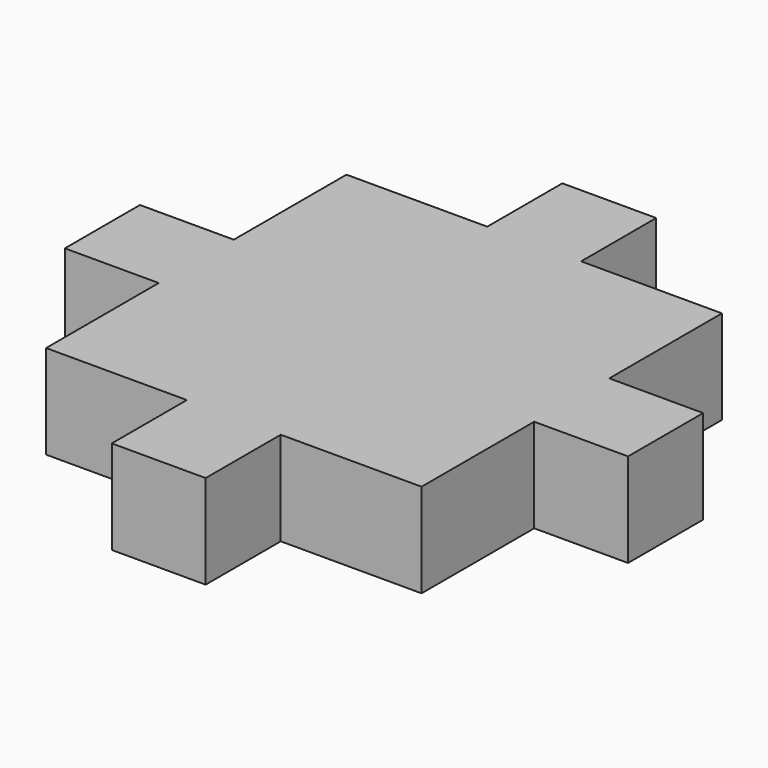
from build123d import *

# Parameters (mm, degrees)
F0_W     = 6.35
F0_H     = 6.35
F1_DEPTH = 6.35


with BuildPart() as f1:
    # F0 (on Top) → F1 (new body)
    with BuildSketch(Plane.XY):
        Polygon((9.525, 0), (0, 0), (0, -9.525), (0, -15.875), (0, -25.4), (9.525, -25.4), (15.875, -25.4), (25.4, -25.4), (25.4, -15.875), (25.4, -9.525), (25.4, 0), (15.875, 0), align=None)
        with Locations((12.7, 3.175)):
            Rectangle(F0_W, F0_H)
        with Locations((-3.175, -12.7)):
            Rectangle(F0_W, F0_H)
        with Locations((28.575, -12.7)):
            Rectangle(F0_W, F0_H)
        with Locations((12.7, -28.575)):
            Rectangle(F0_W, F0_H)
    extrude(amount=F1_DEPTH)


solid = f1.part
